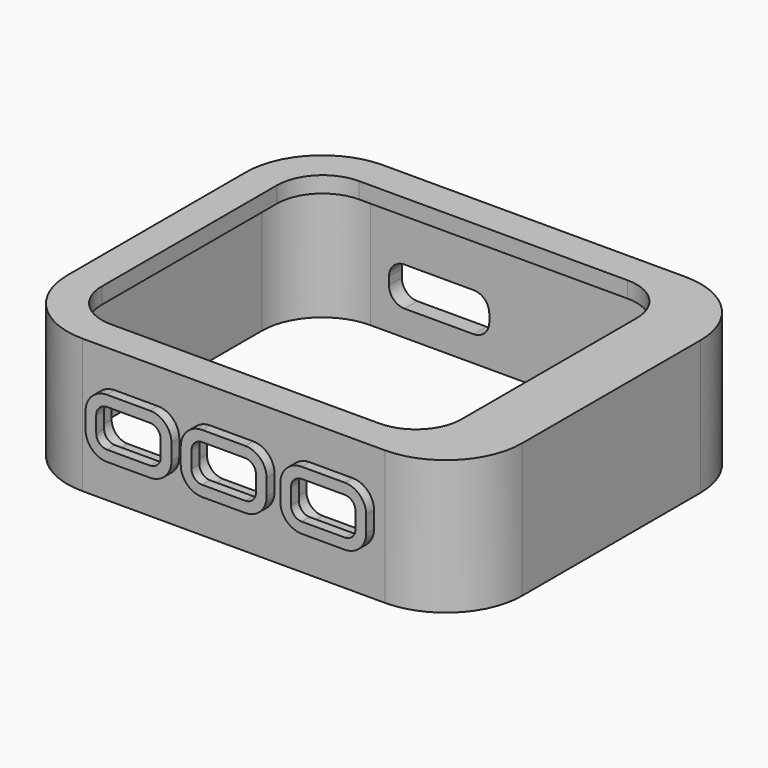
from build123d import *

# Parameters (mm, degrees)
PAD002_DEPTH    = 11
THICKNESS001_T  = 1.5
POCKET006_DEPTH = 20
POCKET007_DEPTH = 32
POCKET009_DEPTH = 5
POCKET014_DEPTH = 5
PAD012_START    = 4.58
PAD012_DEPTH    = 0.92


with BuildPart() as part:
    # Sketch012 → Pad002 (new body)
    with BuildSketch(Plane.XY):
        with BuildLine():
            Line((-19.464986, 23.284984), (-19.464986, 2.515016))
            ThreePointArc((-19.464986, 2.515016), (-17.82478, -1.444793), (-13.864971, -3.085))
            Line((-13.864971, -3.085), (14.264998, -3.085))
            ThreePointArc((14.264998, -3.085), (18.224807, -1.444793), (19.865014, 2.515016))
            Line((19.865014, 2.515016), (19.865014, 23.284984))
            ThreePointArc((19.865014, 23.284984), (18.224807, 27.244793), (14.264998, 28.885))
            Line((14.264998, 28.885), (-13.864971, 28.885))
            ThreePointArc((-13.864971, 28.885), (-17.82478, 27.244793), (-19.464986, 23.284984))
        make_face()
    extrude(amount=PAD002_DEPTH)

    # Thickness001
    thickness001_openings = [part.faces().sort_by_distance(p)[0] for p in [
        (0.200014, 12.9, 0),
    ]]
    offset(amount=THICKNESS001_T, openings=thickness001_openings, kind=Kind.INTERSECTION)

    # Sketch013 → Pocket006 (cut)
    with BuildSketch(Plane.XY):
        with BuildLine():
            Line((-13.664986, -1.535), (11.315014, -1.535))
            ThreePointArc((11.315014, -1.535), (14.320217, -0.290204), (15.565014, 2.715))
            Line((15.565014, 2.715), (15.565014, 23.085))
            ThreePointArc((15.565014, 23.085), (14.320217, 26.090204), (11.315014, 27.335))
            Line((11.315014, 27.335), (-13.664986, 27.335))
            ThreePointArc((-13.664986, 27.335), (-16.67019, 26.090204), (-17.914986, 23.085))
            Line((-17.914986, 23.085), (-17.914986, 2.715))
            ThreePointArc((-17.914986, 2.715), (-16.67019, -0.290204), (-13.664986, -1.535))
        make_face()
    extrude(amount=POCKET006_DEPTH, mode=Mode.SUBTRACT)

    # Sketch018 → Pocket007 (cut)
    with BuildSketch(Plane.XZ):
        with BuildLine():
            Line((-10.6786, 2.39), (-4.2386, 2.39))
            ThreePointArc((-4.2386, 2.39), (-3.213295, 2.814695), (-2.7886, 3.84))
            Line((-2.7886, 3.84), (-2.7886, 4.55))
            ThreePointArc((-2.7886, 4.55), (-3.213295, 5.575305), (-4.2386, 6))
            Line((-4.2386, 6), (-10.6786, 6))
            ThreePointArc((-10.6786, 6), (-11.703905, 5.575305), (-12.1286, 4.55))
            Line((-12.1286, 4.55), (-12.1286, 3.84))
            ThreePointArc((-12.1286, 3.84), (-11.703905, 2.814695), (-10.6786, 2.39))
        make_face()
    extrude(amount=-POCKET007_DEPTH, mode=Mode.SUBTRACT)

    # Sketch022 → Pocket009 (cut)
    with BuildSketch(Plane.XZ):
        with BuildLine():
            Line((-11.864971, 7.25), (-11.864971, 5.75))
            ThreePointArc((-11.864971, 5.75), (-11.572077, 5.042893), (-10.864971, 4.75))
            Line((-10.864971, 4.75), (-6.864971, 4.75))
            ThreePointArc((-6.864971, 4.75), (-6.157864, 5.042893), (-5.864971, 5.75))
            Line((-5.864971, 5.75), (-5.864971, 7.25))
            ThreePointArc((-5.864971, 7.25), (-6.157864, 7.957107), (-6.864971, 8.25))
            Line((-6.864971, 8.25), (-10.864971, 8.25))
            ThreePointArc((-10.864971, 8.25), (-11.572077, 7.957107), (-11.864971, 7.25))
        make_face()
        with BuildLine():
            Line((-3, 7.25), (-3, 5.75))
            ThreePointArc((-3, 5.75), (-2.707107, 5.042893), (-2, 4.75))
            Line((-2, 4.75), (2, 4.75))
            ThreePointArc((2, 4.75), (2.707107, 5.042893), (3, 5.75))
            Line((3, 5.75), (3, 7.25))
            ThreePointArc((3, 7.25), (2.707107, 7.957107), (2, 8.25))
            Line((2, 8.25), (-2, 8.25))
            ThreePointArc((-2, 8.25), (-2.707107, 7.957107), (-3, 7.25))
        make_face()
        with BuildLine():
            Line((6.264998, 7.25), (6.264998, 5.75))
            ThreePointArc((6.264998, 5.75), (6.557891, 5.042893), (7.264998, 4.75))
            Line((7.264998, 4.75), (11.264998, 4.75))
            ThreePointArc((11.264998, 4.75), (11.972105, 5.042893), (12.264998, 5.75))
            Line((12.264998, 5.75), (12.264998, 7.25))
            ThreePointArc((12.264998, 7.25), (11.972105, 7.957107), (11.264998, 8.25))
            Line((11.264998, 8.25), (7.264998, 8.25))
            ThreePointArc((7.264998, 8.25), (6.557891, 7.957107), (6.264998, 7.25))
        make_face()
    extrude(amount=POCKET009_DEPTH, mode=Mode.SUBTRACT)

    # Sketch030 → Pocket014 (cut)
    with BuildSketch(Plane.XZ):
        with BuildLine():
            Line((11.264998, 8.75), (7.264998, 8.75))
            ThreePointArc((7.264998, 8.75), (6.204338, 8.31066), (5.764998, 7.25))
            Line((5.764998, 7.25), (5.764998, 5.75))
            ThreePointArc((5.764998, 5.75), (6.204338, 4.68934), (7.264998, 4.25))
            Line((7.264998, 4.25), (11.264998, 4.25))
            ThreePointArc((11.264998, 4.25), (12.325658, 4.68934), (12.764998, 5.75))
            Line((12.764998, 5.75), (12.764998, 7.25))
            ThreePointArc((12.764998, 7.25), (12.325658, 8.31066), (11.264998, 8.75))
        make_face()
        with BuildLine():
            Line((-12.364971, 7.25), (-12.364971, 5.75))
            ThreePointArc((-12.364971, 5.75), (-11.925631, 4.68934), (-10.864971, 4.25))
            Line((-10.864971, 4.25), (-6.864971, 4.25))
            ThreePointArc((-6.864971, 4.25), (-5.804311, 4.68934), (-5.364971, 5.75))
            Line((-5.364971, 5.75), (-5.364971, 7.25))
            ThreePointArc((-5.364971, 7.25), (-5.804311, 8.31066), (-6.864971, 8.75))
            Line((-6.864971, 8.75), (-10.864971, 8.75))
            ThreePointArc((-10.864971, 8.75), (-11.925631, 8.31066), (-12.364971, 7.25))
        make_face()
        with BuildLine():
            Line((-3.5, 7.25), (-3.5, 5.75))
            ThreePointArc((-3.5, 5.75), (-3.06066, 4.68934), (-2, 4.25))
            Line((-2, 4.25), (2, 4.25))
            ThreePointArc((2, 4.25), (3.06066, 4.68934), (3.5, 5.75))
            Line((3.5, 5.75), (3.5, 7.25))
            ThreePointArc((3.5, 7.25), (3.06066, 8.31066), (2, 8.75))
            Line((2, 8.75), (-2, 8.75))
            ThreePointArc((-2, 8.75), (-3.06066, 8.31066), (-3.5, 7.25))
        make_face()
    extrude(amount=POCKET014_DEPTH, mode=Mode.SUBTRACT)

    # Sketch031 → Pad012 (join)
    with BuildSketch(Plane.XZ.offset(PAD012_START)):
        with BuildLine():
            Line((5.264998, 7.25), (5.264998, 5.75))
            ThreePointArc((5.264998, 5.75), (5.850784, 4.335786), (7.264998, 3.75))
            Line((7.264998, 3.75), (11.264998, 3.75))
            ThreePointArc((11.264998, 3.75), (12.679211, 4.335786), (13.264998, 5.75))
            Line((13.264998, 5.75), (13.264998, 7.25))
            ThreePointArc((13.264998, 7.25), (12.679211, 8.664214), (11.264998, 9.25))
            Line((11.264998, 9.25), (7.264998, 9.25))
            ThreePointArc((7.264998, 9.25), (5.850784, 8.664214), (5.264998, 7.25))
        make_face()
        with BuildLine():
            Line((6.264998, 7.25), (6.264998, 5.75))
            ThreePointArc((6.264998, 5.75), (6.557891, 5.042893), (7.264998, 4.75))
            Line((7.264998, 4.75), (11.264998, 4.75))
            ThreePointArc((11.264998, 4.75), (11.972105, 5.042893), (12.264998, 5.75))
            Line((12.264998, 5.75), (12.264998, 7.25))
            ThreePointArc((12.264998, 7.25), (11.972105, 7.957107), (11.264998, 8.25))
            Line((11.264998, 8.25), (7.264998, 8.25))
            ThreePointArc((7.264998, 8.25), (6.557891, 7.957107), (6.264998, 7.25))
        make_face(mode=Mode.SUBTRACT)
        with BuildLine():
            Line((-12.864971, 7.25), (-12.864971, 5.75))
            ThreePointArc((-12.864971, 5.75), (-12.279184, 4.335786), (-10.864971, 3.75))
            Line((-10.864971, 3.75), (-6.864971, 3.75))
            ThreePointArc((-6.864971, 3.75), (-5.450757, 4.335786), (-4.864971, 5.75))
            Line((-4.864971, 5.75), (-4.864971, 7.25))
            ThreePointArc((-4.864971, 7.25), (-5.450757, 8.664214), (-6.864971, 9.25))
            Line((-6.864971, 9.25), (-10.864971, 9.25))
            ThreePointArc((-10.864971, 9.25), (-12.279184, 8.664214), (-12.864971, 7.25))
        make_face()
        with BuildLine():
            Line((-11.864971, 7.25), (-11.864971, 5.75))
            ThreePointArc((-11.864971, 5.75), (-11.572077, 5.042893), (-10.864971, 4.75))
            Line((-10.864971, 4.75), (-6.864971, 4.75))
            ThreePointArc((-6.864971, 4.75), (-6.157864, 5.042893), (-5.864971, 5.75))
            Line((-5.864971, 5.75), (-5.864971, 7.25))
            ThreePointArc((-5.864971, 7.25), (-6.157864, 7.957107), (-6.864971, 8.25))
            Line((-6.864971, 8.25), (-10.864971, 8.25))
            ThreePointArc((-10.864971, 8.25), (-11.572077, 7.957107), (-11.864971, 7.25))
        make_face(mode=Mode.SUBTRACT)
        with BuildLine():
            Line((-2, 3.75), (2, 3.75))
            ThreePointArc((2, 3.75), (3.414214, 4.335786), (4, 5.75))
            Line((4, 5.75), (4, 7.25))
            ThreePointArc((4, 7.25), (3.414214, 8.664214), (2, 9.25))
            Line((2, 9.25), (-2, 9.25))
            ThreePointArc((-2, 9.25), (-3.414214, 8.664214), (-4, 7.25))
            Line((-4, 7.25), (-4, 5.75))
            ThreePointArc((-4, 5.75), (-3.414214, 4.335786), (-2, 3.75))
        make_face()
        with BuildLine():
            Line((-3, 7.25), (-3, 5.75))
            ThreePointArc((-3, 5.75), (-2.707107, 5.042893), (-2, 4.75))
            Line((-2, 4.75), (2, 4.75))
            ThreePointArc((2, 4.75), (2.707107, 5.042893), (3, 5.75))
            Line((3, 5.75), (3, 7.25))
            ThreePointArc((3, 7.25), (2.707107, 7.957107), (2, 8.25))
            Line((2, 8.25), (-2, 8.25))
            ThreePointArc((-2, 8.25), (-2.707107, 7.957107), (-3, 7.25))
        make_face(mode=Mode.SUBTRACT)
    extrude(amount=PAD012_DEPTH)


with BuildPart() as part_1:
    # Body002 placement: moved
    add(part.part.moved(Location((0, 0, 0.9))))


solid = part_1.part
